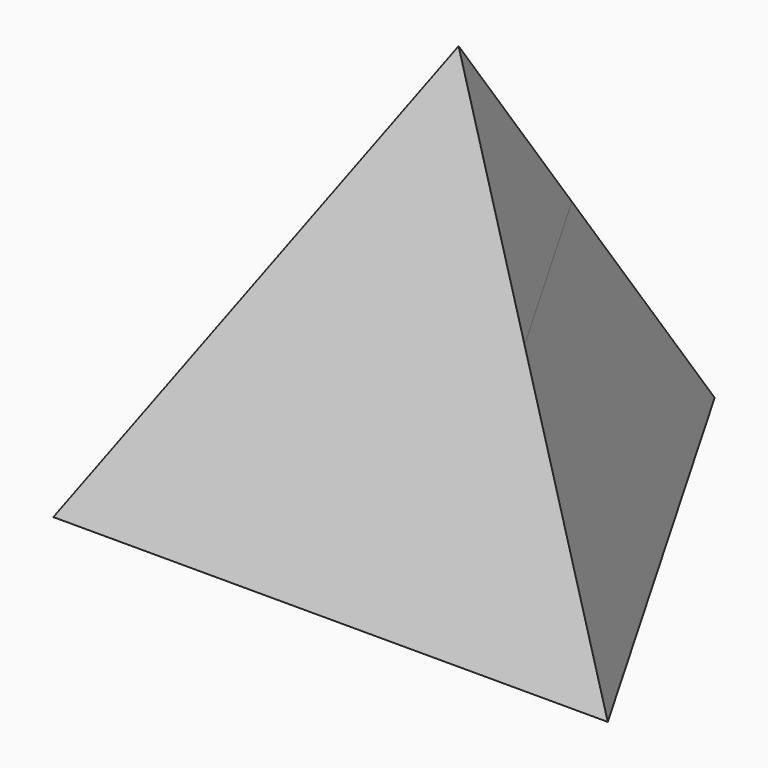
from build123d import *

# Parameters (mm, degrees)
F1_DEPTH      = 25.4
F1_TAPER      = 20
F1_DEPTH_BACK = 25.4
F1_TAPER_BACK = -20


with BuildPart() as f1:
    # F0 (on Top) → F1 (new body, two sides)
    with BuildSketch(Plane.XY) as f1_sk:
        Polygon((0, 14.6646968374), (-12.7, -7.3323484187), (12.7, -7.3323484187), align=None)
    extrude(amount=F1_DEPTH, taper=F1_TAPER)
    extrude(f1_sk.sketch, amount=-F1_DEPTH_BACK, taper=F1_TAPER_BACK)


solid = f1.part
